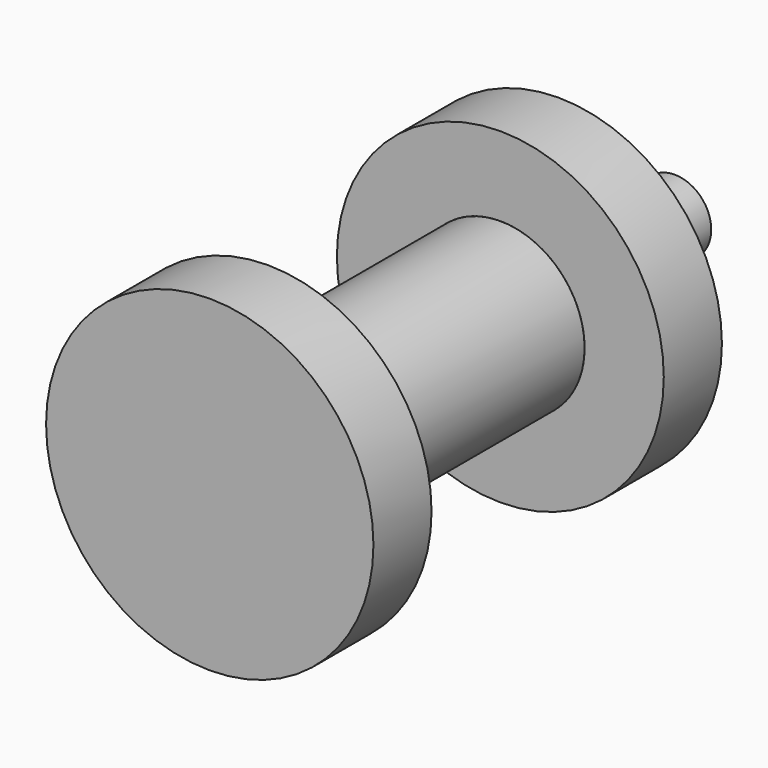
from build123d import *

# Parameters (mm, degrees)
F0_R     = 57.228461
F0_R_2   = 21.323022
F1_DEPTH = 25.4
F2_R     = 29.464868
F3_DEPTH = 127
F4_R     = 57.154598
F4_R_2   = 29.464868
F5_DEPTH = 25.4
F6_R     = 12.785825
F7_DEPTH = 76.2


with BuildPart() as f1:
    # F0 (on Front) → F1 (new body)
    with BuildSketch(Plane.XZ):
        Circle(F0_R)
        Circle(F0_R_2, mode=Mode.SUBTRACT)
        Circle(F0_R_2)
    extrude(amount=-F1_DEPTH)

    # F2 (on Front) → F3 (join)
    with BuildSketch(Plane.XZ):
        Circle(F2_R)
    extrude(amount=-F3_DEPTH)

    # F6 (on face) → F7 (join)
    with BuildSketch(Plane(origin=(0, 127, 0), x_dir=(-1, 0, 0), z_dir=(0, 1, 0))):
        Circle(F6_R)
    extrude(amount=F7_DEPTH)


with BuildPart() as f5:
    # F4 (on face) → F5 (new body)
    with BuildSketch(Plane(origin=(0, 127, 0), x_dir=(-1, 0, 0), z_dir=(0, 1, 0))):
        Circle(F4_R)
        Circle(F4_R_2, mode=Mode.SUBTRACT)
    extrude(amount=F5_DEPTH)


solid = Compound([f1.part, f5.part])
